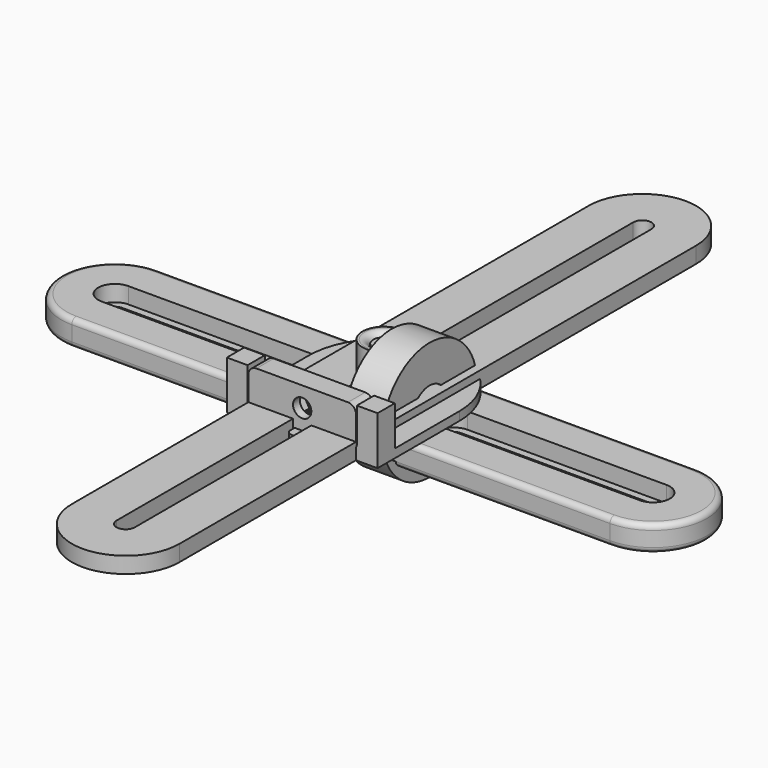
from build123d import *

# Parameters (mm, degrees)
SKETCH002_R           = 11
SKETCH002_R_2         = 4
PAD002_DEPTH          = 7
PAD006_DEPTH          = 3
PAD003_DEPTH          = 1.6
SKETCH010_R           = 6
PAD008_DEPTH          = 0.2
SKETCH004_R           = 4
SKETCH004_R_2         = 2.1
PAD009_DEPTH          = 7
SKETCH011_W           = 20
SKETCH011_H           = 4
PAD010_DEPTH          = 7.4
SKETCH006_R           = 1.7
POCKET_DEPTH          = 4
POCKET001_DEPTH       = 2.4
FILLET001_R           = 1.5
FILLET002_R           = 1.5
FILLET003_R           = 1
CLONE_PLACEMENT_ANGLE = 180
SKETCH012_R           = 6
PAD011_DEPTH          = 0.2
SKETCH007_R           = 2
PAD012_DEPTH          = 6.3
SKETCH009_W           = 3.85
SKETCH009_H           = 4
PAD013_DEPTH          = 7.4
FILLET004_R           = 1
FILLET005_R           = 1
FILLET006_R           = 1
SKETCH001_R           = 3.1
PAD001_DEPTH          = 3
SKETCH_R              = 1.75
PAD_DEPTH             = 4.8
FILLET_R              = 1
CUT_PLACEMENT_ANGLE   = 180
SKETCH013_W           = 20.4
SKETCH013_H           = 20.4
POCKET002_DEPTH       = 1


with BuildPart() as f_608zz:
    # Sketch002 → Pad002 (new body)
    with BuildSketch(Plane.YZ.offset(1.45)):
        Circle(SKETCH002_R)
        Circle(SKETCH002_R_2, mode=Mode.SUBTRACT)
    extrude(amount=PAD002_DEPTH)


with BuildPart() as bridge:
    # Sketch008 → Pad006 (new body)
    with BuildSketch(Plane.XY):
        with BuildLine():
            Line((10, 60.000001), (10, -60.000004))
            ThreePointArc((-10, -59.999996), (-4e-06, -70.000005), (10, -60.000004))
            Line((-10, -59.999996), (-10, 60.000004))
            ThreePointArc((10, 60.000001), (1e-06, 70.00001), (-10, 60.000004))
        make_face()
        with BuildLine():
            Line((1.7, 60.000011), (1.7, -60.000011))
            ThreePointArc((-1.7, -60.000011), (0, -61.700005), (1.7, -60.000011))
            Line((-1.7, -60.000011), (-1.7, 60.000011))
            ThreePointArc((1.7, 60.000011), (0, 61.70001), (-1.7, 60.000011))
        make_face(mode=Mode.SUBTRACT)
    extrude(amount=PAD006_DEPTH)


with BuildPart() as bearingholderside:
    # Sketch003 → Pad003 (new body)
    with BuildSketch(Plane.XY):
        with BuildLine():
            Line((-14, 0), (-14, -19))
            Line((-14, -19), (-1.4, -19))
            Line((-1.4, -19), (-1.4, -21))
            Line((-1.4, -21), (1.4, -21))
            Line((1.4, -21), (1.4, -19))
            Line((1.4, -19), (14, -19))
            Line((14, -19), (14, 0))
            ThreePointArc((14, 0), (0, 14), (-14, 0))
        make_face()
    extrude(amount=PAD003_DEPTH)


with BuildPart() as bearing_a_final:
    # Pad008 base: copy of _BearingHolderSide
    add(bearingholderside.part)

    # Sketch010 (on Face10 of Pad003) → Pad008 (new body)
    with BuildSketch(Plane.XY.offset(1.6)):
        Circle(SKETCH010_R)
    extrude(amount=PAD008_DEPTH)

    # Sketch004 (on Face12 of Pad008) → Pad009 (new body)
    with BuildSketch(Plane.XY.offset(1.8)):
        Circle(SKETCH004_R)
        Circle(SKETCH004_R_2, mode=Mode.SUBTRACT)
    extrude(amount=PAD009_DEPTH)

    # Sketch011 (on Face5 of Pad009) → Pad010 (new body)
    with BuildSketch(Plane.XY.offset(1.6)):
        with Locations((0, -17)):
            Rectangle(SKETCH011_W, SKETCH011_H)
    extrude(amount=PAD010_DEPTH)

    # Sketch006 (on Face13 of Pad010) → Pocket (cut)
    with BuildSketch(Plane(origin=(0, -15, 0), x_dir=(-1, 0, 0), z_dir=(0, 1, 0))):
        with Locations((0, 5.3)):
            Circle(SKETCH006_R)
    extrude(amount=-POCKET_DEPTH, mode=Mode.SUBTRACT)

    # Sketch005 (on Face13 of Pocket) → Pocket001 (cut)
    with BuildSketch(Plane(origin=(0, -15, 0), x_dir=(-1, 0, 0), z_dir=(0, 1, 0))):
        Polygon((1.6, 2.528719), (3.2, 5.3), (1.6, 8.071281), (-1.6, 8.071281), (-3.2, 5.3), (-1.6, 2.528719), align=None)
    extrude(amount=-POCKET001_DEPTH, mode=Mode.SUBTRACT)

    # Fillet001
    fillet001_edges = [bearing_a_final.edges().sort_by_distance(p)[0] for p in [
        (-2.1, 0, 8.8),
    ]]
    fillet(fillet001_edges, radius=FILLET001_R)

    # Fillet002
    fillet002_edges = [bearing_a_final.edges().sort_by_distance(p)[0] for p in [
        (10, -17, 9),
        (-10, -17, 9),
    ]]
    fillet(fillet002_edges, radius=FILLET002_R)

    # Fillet003
    fillet003_edges = [bearing_a_final.edges().sort_by_distance(p)[0] for p in [
        (1.4, -21, 0.8),
        (-1.4, -21, 0.8),
    ]]
    fillet(fillet003_edges, radius=FILLET003_R)


with BuildPart() as bearing_b_final:
    # Clone base: copy of _BearingHolderSide
    add(bearingholderside.part)


with BuildPart() as bearing_b_final_1:
    # Clone placement: moved
    add(bearing_b_final.part.moved(Location((0, 0, 1.6))).rotate(Axis((0, 0, 1.6), (0, 1, 0)), CLONE_PLACEMENT_ANGLE))

    # Sketch012 (on Face9 of Clone) → Pad011 (new body)
    with BuildSketch(Plane(origin=(0, 0, 1.6), x_dir=(-1, 0, 0), z_dir=(0, 0, 1))):
        Circle(SKETCH012_R)
    extrude(amount=PAD011_DEPTH)

    # Sketch007 (on Face12 of Pad011) → Pad012 (new body)
    with BuildSketch(Plane(origin=(0, 0, 1.8), x_dir=(-1, 0, 0), z_dir=(0, 0, 1))):
        Circle(SKETCH007_R)
    extrude(amount=PAD012_DEPTH)

    # Sketch009 (on Face4 of Pad012) → Pad013 (new body)
    with BuildSketch(Plane(origin=(0, 0, 1.6), x_dir=(-1, 0, 0), z_dir=(0, 0, 1))):
        with Locations((-12.075, 17)):
            Rectangle(SKETCH009_W, SKETCH009_H)
        with Locations((12.075, 17)):
            Rectangle(SKETCH009_W, SKETCH009_H)
    extrude(amount=PAD013_DEPTH)

    # Fillet004
    fillet004_edges = [bearing_b_final_1.edges().sort_by_distance(p)[0] for p in [
        (2, 0, 1.8),
    ]]
    fillet(fillet004_edges, radius=FILLET004_R)

    # Fillet005
    fillet005_edges = [bearing_b_final_1.edges().sort_by_distance(p)[0] for p in [
        (10.15, -17, 1.6),
        (-10.15, -17, 1.6),
    ]]
    fillet(fillet005_edges, radius=FILLET005_R)

    # Fillet006
    fillet006_edges = [bearing_b_final_1.edges().sort_by_distance(p)[0] for p in [
        (1.4, -21, 0.8),
        (-1.4, -21, 0.8),
    ]]
    fillet(fillet006_edges, radius=FILLET006_R)


with BuildPart() as standscrewheadgroove:
    # Sketch001 → Pad001 (new body)
    with BuildSketch(Plane.XY):
        Circle(SKETCH001_R)
        with BuildLine():
            ThreePointArc((-49.999996, 3.1), (-53.099984, -7e-06), (-49.999983, -3.1))
            Line((-49.999983, -3.1), (-12.999983, -3.1))
            ThreePointArc((-12.999983, -3.1), (-9.899984, 7e-06), (-12.999996, 3.1))
            Line((-49.999996, 3.1), (-12.999996, 3.1))
        make_face()
        with BuildLine():
            ThreePointArc((49.999996, -3.1), (53.100001, -4e-06), (50.000004, 3.1))
            Line((13.000004, 3.1), (50.000004, 3.1))
            ThreePointArc((13.000004, 3.1), (9.899997, 4e-06), (12.999996, -3.1))
            Line((12.999996, -3.1), (49.999996, -3.1))
        make_face()
    extrude(amount=PAD001_DEPTH)


with BuildPart() as pocket002:
    # Sketch → Pad (new body)
    with BuildSketch(Plane.XY):
        with BuildLine():
            Line((-50, 10), (50, 10))
            ThreePointArc((50, -10), (60, 0), (50, 10))
            Line((50, -10), (-50, -10))
            ThreePointArc((-50, 10), (-60, 0), (-50, -10))
        make_face()
        Circle(SKETCH_R, mode=Mode.SUBTRACT)
        with BuildLine():
            ThreePointArc((-49.999993, 1.7), (-51.7, -4e-06), (-49.999985, -1.7))
            Line((-49.999985, -1.7), (-12.999992, -1.7))
            ThreePointArc((-12.999992, -1.7), (-11.299992, 4e-06), (-13, 1.7))
            Line((-49.999993, 1.7), (-13, 1.7))
        make_face(mode=Mode.SUBTRACT)
        with BuildLine():
            ThreePointArc((49.999993, -1.7), (51.7, -6e-06), (50.000005, 1.7))
            Line((13, 1.7), (50.000005, 1.7))
            ThreePointArc((13, 1.7), (11.299989, 6e-06), (12.999988, -1.7))
            Line((12.999988, -1.7), (49.999993, -1.7))
        make_face(mode=Mode.SUBTRACT)
    extrude(amount=PAD_DEPTH)

    # Fillet
    fillet_edges = [pocket002.edges().sort_by_distance(p)[0] for p in [
        (0, 10, 4.8),
        (60, 0, 4.8),
        (0, -10, 4.8),
        (-60, 0, 4.8),
        (-60, 0, 0),
        (0, 10, 0),
        (60, 0, 0),
        (0, -10, 0),
    ]]
    fillet(fillet_edges, radius=FILLET_R)

    # Cut: cut _StandScrewHeadGroove
    add(standscrewheadgroove.part, mode=Mode.SUBTRACT)


with BuildPart() as pocket002_1:
    # Cut placement: moved
    add(pocket002.part.rotate(Axis((0, 0, 0), (1, 0, 0)), CUT_PLACEMENT_ANGLE))

    # Sketch013 (on Face11 of Cut) → Pocket002 (cut)
    with BuildSketch(Plane(origin=(0, 0, -4.8), x_dir=(1, 0, 0), z_dir=(0, 0, -1))):
        Rectangle(SKETCH013_W, SKETCH013_H)
    extrude(amount=-POCKET002_DEPTH, mode=Mode.SUBTRACT)


solid = Compound([f_608zz.part, bridge.part, bearing_a_final.part, bearing_b_final_1.part, pocket002_1.part])
